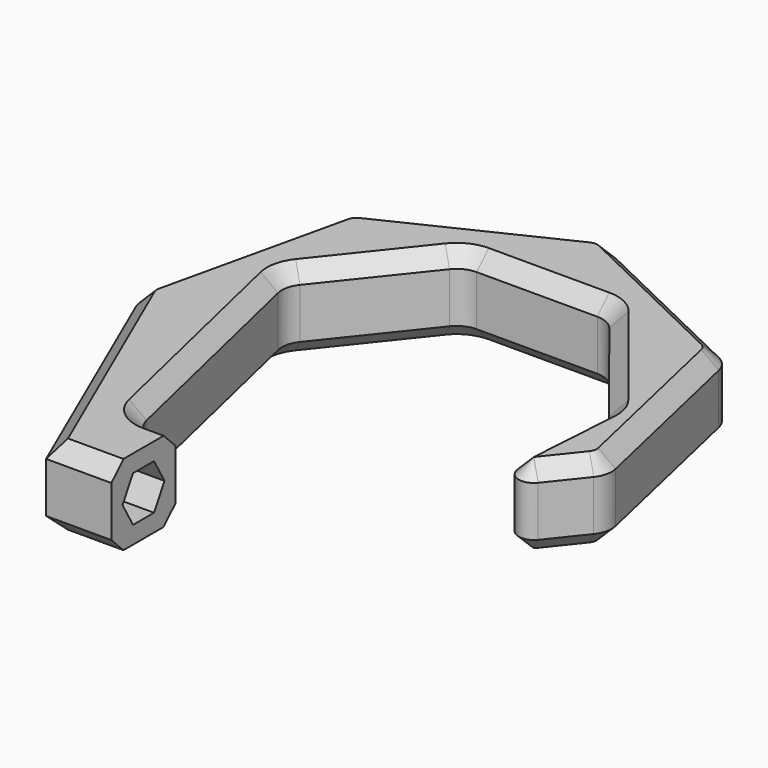
from build123d import *

# Parameters (mm, degrees)
F1_DEPTH = 16
F2_R     = 3
F3_R     = 5
F4_R     = 5
F5_W     = 16
F5_H     = 16
F6_DEPTH = 12
F7_DEPTH = 23
F8_SIZE  = 3


with BuildPart() as f1:
    # F0 (on Top) → F1 (new body)
    with BuildSketch(Plane.XY):
        Polygon((0, -61), (0, -45), (-20, -45), (-20.4101977074, -43.2465056593), (-20.8264194776, -43.2465056593), (-46.7965397847, -10.6810048299), (-25, -61), align=None)
        Polygon((-20.8264194776, -43.2465056593), (-20.4101977074, -43.2465056593), (-32.2850969664, 7.5157689065), (-46.7965397847, -10.6810048299), align=None)
        Polygon((-46.7965397847, -10.6810048299), (-32.2850969664, 7.5157689065), (-37.5279111585, 29.9275104892), align=None)
        Polygon((-37.5279111585, 29.9275104892), (-32.2850969664, 7.5157689065), (-14.4123294557, 29.9275104892), align=None)
        Polygon((0, 48), (-37.5279111585, 29.9275104892), (-14.4123294557, 29.9275104892), align=None)
        Polygon((0, 48), (-14.4123294557, 29.9275104892), (14.4123294557, 29.9275104892), align=None)
        Polygon((37.5279111585, 29.9275104892), (0, 48), (14.4123294557, 29.9275104892), align=None)
        Polygon((14.4123294557, 29.9275104892), (35.7777584033, 3.1361099918), (37.5279111585, 29.9275104892), align=None)
        Polygon((35.7777584033, 3.1361099918), (46.7965397847, -10.6810048299), (37.5279111585, 29.9275104892), align=None)
        Polygon((35.7777584033, 3.1361099918), (33.8114796312, -26.9637552446), (46.7965397847, -10.6810048299), align=None)
    extrude(amount=F1_DEPTH)

    # F2
    f2_edges = [f1.edges().sort_by_distance(p)[0] for p in [
        (33.81148, -26.963755, 8),
    ]]
    fillet(f2_edges, radius=F2_R)

    # F3
    f3_edges = [f1.edges().sort_by_distance(p)[0] for p in [
        (-46.79654, -10.681005, 8),
        (-37.527911, 29.92751, 8),
        (0, 48, 8),
        (37.527911, 29.92751, 8),
        (46.79654, -10.681005, 8),
    ]]
    fillet(f3_edges, radius=F3_R)

    # F4
    f4_edges = [f1.edges().sort_by_distance(p)[0] for p in [
        (-32.285097, 7.515769, 8),
        (-14.412329, 29.92751, 8),
        (14.412329, 29.92751, 8),
        (35.777758, 3.13611, 8),
        (-20, -45, 8),
    ]]
    fillet(f4_edges, radius=F4_R)

    # F5 (on face) → F6 (cut)
    with BuildSketch(Plane.YZ):
        with Locations((-53, 8)):
            Rectangle(F5_W, F5_H)
        Polygon((-50.3874900319, 3.475), (-55.6125099681, 3.475), (-58.2250199362, 8), (-55.6125099681, 12.525), (-50.3874900319, 12.525), (-47.7749800638, 8), align=None, mode=Mode.SUBTRACT)
        Polygon((-58.2250199362, 8), (-55.6125099681, 3.475), (-50.3874900319, 3.475), (-47.7749800638, 8), (-50.3874900319, 12.525), (-55.6125099681, 12.525), align=None)
    extrude(amount=-F6_DEPTH, mode=Mode.SUBTRACT)

    # F5 (on face) → F7 (cut)
    with BuildSketch(Plane.YZ):
        Polygon((-58.2250199362, 8), (-55.6125099681, 3.475), (-50.3874900319, 3.475), (-47.7749800638, 8), (-50.3874900319, 12.525), (-55.6125099681, 12.525), align=None)
    extrude(amount=-F7_DEPTH, mode=Mode.SUBTRACT)

    # F8
    f8_edges = [f1.edges().sort_by_distance(p)[0] for p in [
        (-26.318032, -17.991965, 16),
        (-18.5, -61, 16),
        (-18.5, -61, 0),
        (-26.318032, -17.991965, 0),
    ]]
    chamfer(f8_edges, length=F8_SIZE)


solid = f1.part
